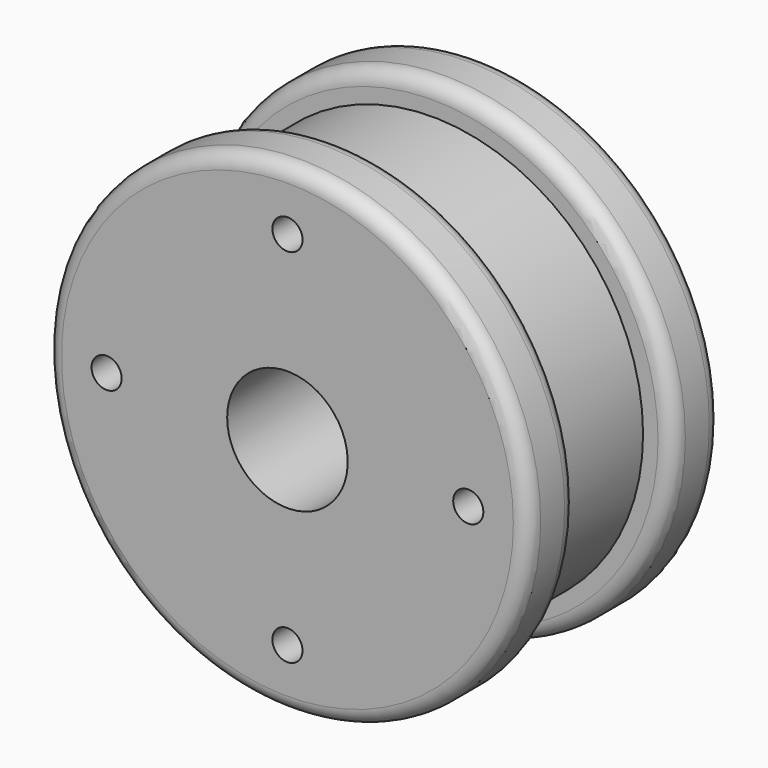
from build123d import *

# Parameters (mm, degrees)
F0_R     = 25.4
F1_DEPTH = 6.35
F2_R     = 22.225
F3_DEPTH = 12.7
F4_R     = 25.4
F5_DEPTH = 6.35
F7_D     = 12.7
F9_D     = 3.175
F9_DEPTH = 3.175
F9_TIP   = 0.9538662327
F10_R    = 1.6002


with BuildPart() as f1:
    # F0 (on Front) → F1 (new body)
    with BuildSketch(Plane.XZ):
        Circle(F0_R)
    extrude(amount=F1_DEPTH)

    # F2 (on face) → F3 (join)
    with BuildSketch(Plane.XZ.offset(6.35)):
        Circle(F2_R)
    extrude(amount=F3_DEPTH)

    # F4 (on face) → F5 (join)
    with BuildSketch(Plane.XZ.offset(19.05)):
        Circle(F4_R)
    extrude(amount=F5_DEPTH)

    # F7 (through all)
    with Locations(Plane.XZ.offset(25.4)):
        with Locations((0, 0)):
            Hole(F7_D / 2)

    # F9
    with Locations(Plane.XZ.offset(25.4)):
        with Locations((0, 19.05), (19.05, 0), (0, -19.05), (-19.05, 0)):
            Hole(F9_D / 2, depth=F9_DEPTH)
            with Locations((0, 0, -(F9_DEPTH + F9_TIP / 2))):  # 118° drill point
                Cone(0, F9_D / 2, F9_TIP, mode=Mode.SUBTRACT)

    # F10
    f10_edges = [f1.edges().sort_by_distance(p)[0] for p in [
        (-25.4, -25.4, 0),
        (-25.4, -19.05, 0),
        (-25.4, -6.35, 0),
        (-25.4, 0, 0),
    ]]
    fillet(f10_edges, radius=F10_R)


solid = f1.part
